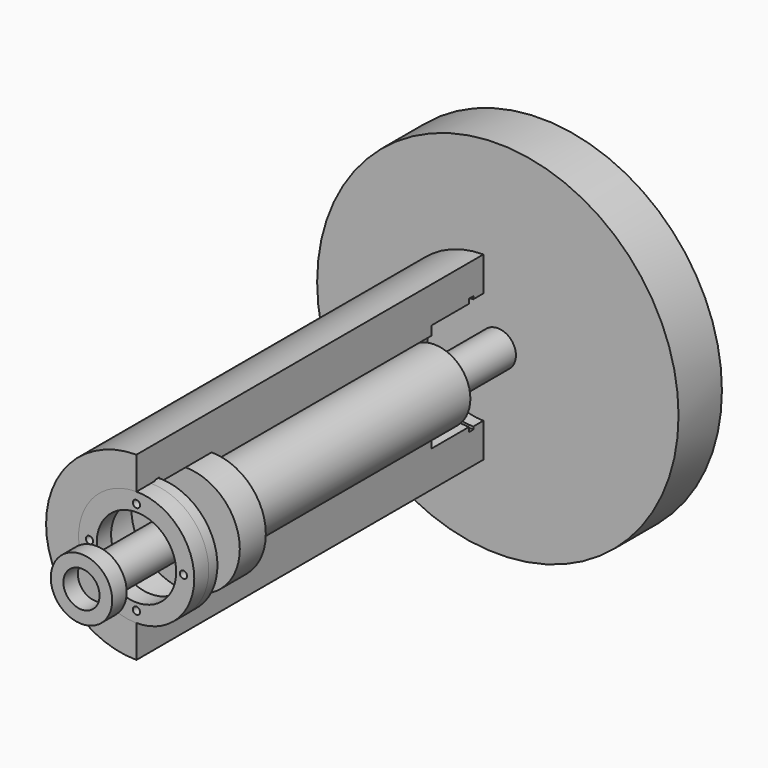
from build123d import *

# Parameters (mm, degrees)
F0_R      = 25
F0_R_2    = 12.5
F1_DEPTH  = 120
F2_R      = 15
F3_DEPTH  = 26
F4_R      = 15
F5_DEPTH  = 18
F6_R      = 15
F6_R_2    = 5
F7_DEPTH  = 9
F8_R      = 15.5
F9_DEPTH  = 5
F10_W     = 2.0336253941
F10_H     = 1.5
F12_R     = 15.5
F13_DEPTH = 8
F14_W     = 1.5
F14_H     = 3.402102628
F16_R     = 16
F16_R_2   = 11
F17_DEPTH = 5
F18_R     = 1
F19_DEPTH = 4
F20_R     = 16
F20_R_2   = 15
F21_DEPTH = 3
F24_R     = 50
F24_R_2   = 3
F25_DEPTH = 15
F26_R     = 8.5
F26_R_2   = 5
F27_DEPTH = 5
F29_DEPTH = 25
F30_W     = 78.1155228615
F30_H     = 117.9010644555
F31_DEPTH = 148.1


with BuildPart() as f1:
    # F0 (on Front) → F1 (new body)
    with BuildSketch(Plane.XZ):
        Circle(F0_R)
        Circle(F0_R_2, mode=Mode.SUBTRACT)
    extrude(amount=F1_DEPTH)

    # F2 (on face) → F3 (cut)
    with BuildSketch(Plane.XZ.offset(120)):
        Circle(F2_R)
    extrude(amount=-F3_DEPTH, mode=Mode.SUBTRACT)

    # F4 (on face) → F5 (cut)
    with BuildSketch(Plane(origin=(0, 0, 0), x_dir=(-1, 0, 0), z_dir=(0, 1, 0))):
        Circle(F4_R)
    extrude(amount=-F5_DEPTH, mode=Mode.SUBTRACT)

    # F8 (on face) → F9 (cut)
    with BuildSketch(Plane(origin=(0, 0, 0), x_dir=(-1, 0, 0), z_dir=(0, 1, 0))):
        Circle(F8_R)
    extrude(amount=-F9_DEPTH, mode=Mode.SUBTRACT)

    # F10 (on Top) → F11 (revolve, cut)
    with BuildSketch(Plane.XY):
        with Locations((15.2331873029, -4.25)):
            Rectangle(F10_W, F10_H)
    revolve(axis=Axis((0, -4.2630452663, 0), (0, -1, 0)), mode=Mode.SUBTRACT)

    # F12 (on face) → F13 (cut)
    with BuildSketch(Plane.XZ.offset(120)):
        Circle(F12_R)
    extrude(amount=-F13_DEPTH, mode=Mode.SUBTRACT)

    # F14 (on Right) → F15 (revolve, cut)
    with BuildSketch(Plane.YZ):
        with Locations((-112.75, 14.548948686)):
            Rectangle(F14_W, F14_H)
    revolve(axis=Axis((0, -92.9998606443, 0), (0, -1, 0)), mode=Mode.SUBTRACT)

    # F28 (on face) → F29 (cut)
    with BuildSketch(Plane.XZ.offset(-5)):
        with BuildLine():
            ThreePointArc((50, 0), (35.3553390593, 35.3553390593), (0, 50))
            Line((0, 50), (0, 3))
            ThreePointArc((0, 3), (2.1213203436, 2.1213203436), (3, 0))
            ThreePointArc((3, 0), (2.1213203436, -2.1213203436), (0, -3))
            Line((0, -3), (0, -50))
            ThreePointArc((0, -50), (35.3553390593, -35.3553390593), (50, 0))
        make_face()
    extrude(amount=F29_DEPTH, mode=Mode.SUBTRACT)

    # F30 (on face) → F31 (cut)
    with BuildSketch(Plane.XZ.offset(120)):
        with Locations((39.0577614307, -4.8518963158)):
            Rectangle(F30_W, F30_H)
    extrude(amount=-F31_DEPTH, mode=Mode.SUBTRACT)


with BuildPart() as f7:
    # F6 (on face) → F7 (new body)
    with BuildSketch(Plane.XZ.offset(94)):
        Circle(F6_R)
        Circle(F6_R_2, mode=Mode.SUBTRACT)
    extrude(amount=F7_DEPTH)


with BuildPart() as f17:
    # F16 (on face) → F17 (new body)
    with BuildSketch(Plane.XZ.offset(120)):
        Circle(F16_R)
        Circle(F16_R_2, mode=Mode.SUBTRACT)
    extrude(amount=-F17_DEPTH)

    # F18 (on face) → F19 (cut)
    with BuildSketch(Plane.XZ.offset(120)):
        with Locations((0, 13)):
            Circle(F18_R)
        with Locations((0, -13)):
            Circle(F18_R)
        with Locations((-13, 0)):
            Circle(F18_R)
        with Locations((13, 0)):
            Circle(F18_R)
    extrude(amount=-F19_DEPTH, mode=Mode.SUBTRACT)

    # F20 (on face) → F21 (join)
    with BuildSketch(Plane(origin=(0, -115, 0), x_dir=(-1, 0, 0), z_dir=(0, 1, 0))):
        Circle(F20_R)
        Circle(F20_R_2, mode=Mode.SUBTRACT)
    extrude(amount=F21_DEPTH)


with BuildPart() as f23:
    # F22 (on Top) → F23 (revolve)
    with BuildSketch(Plane.XY):
        Polygon((0, 20), (0, 0), (0, -134), (5, -134), (5, -94), (10, -94), (10, -17), (5, -17), (5, 20), align=None)
    revolve(axis=Axis((0, 24.7967958012, 0), (0, 1, 0)))


with BuildPart() as f25:
    # F24 (on face) → F25 (new body)
    with BuildSketch(Plane(origin=(0, 20, 0), x_dir=(-1, 0, 0), z_dir=(0, 1, 0))):
        Circle(F24_R)
        Circle(F24_R_2, mode=Mode.SUBTRACT)
    extrude(amount=-F25_DEPTH)


with BuildPart() as f27:
    # F26 (on face) → F27 (new body)
    with BuildSketch(Plane.XZ.offset(134)):
        Circle(F26_R)
        Circle(F26_R_2, mode=Mode.SUBTRACT)
    extrude(amount=F27_DEPTH)


solid = Compound([f1.part, f7.part, f17.part, f23.part, f25.part, f27.part])
